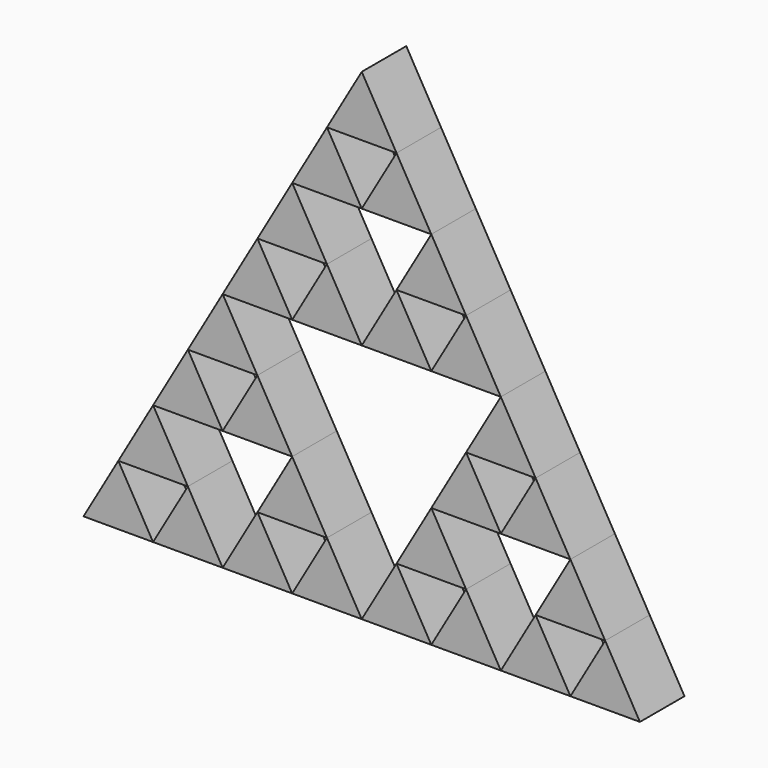
from build123d import *

# Parameters (mm, degrees)
F1_DEPTH = 25.4


with BuildPart() as f1:
    # F0 (on Front) → F1 (new body)
    with BuildSketch(Plane.XZ):
        Polygon((15.875, -27.496307), (0, 0), (-15.875, -27.496307), align=None)
        Polygon((0, -54.992613), (-15.875, -27.496307), (-31.75, -54.992613), align=None)
        Polygon((31.75, -54.992613), (15.875, -27.496307), (0, -54.992613), align=None)
        Polygon((-15.875, -82.48892), (-31.75, -54.992613), (-47.625, -82.48892), align=None)
        Polygon((-31.75, -109.985226), (-47.625, -82.48892), (-63.5, -109.985226), align=None)
        Polygon((0, -109.985226), (-15.875, -82.48892), (-31.75, -109.985226), align=None)
        Polygon((31.75, -109.985226), (15.875, -82.48892), (0, -109.985226), align=None)
        Polygon((47.625, -82.48892), (31.75, -54.992613), (15.875, -82.48892), align=None)
        Polygon((63.5, -109.985226), (47.625, -82.48892), (31.75, -109.985226), align=None)
        Polygon((79.375, -137.481533), (63.5, -109.985226), (47.625, -137.481533), align=None)
        Polygon((63.5, -164.977839), (47.625, -137.481533), (31.75, -164.977839), align=None)
        Polygon((95.25, -164.977839), (79.375, -137.481533), (63.5, -164.977839), align=None)
        Polygon((111.125, -192.474146), (95.25, -164.977839), (79.375, -192.474146), align=None)
        Polygon((95.25, -219.970453), (79.375, -192.474146), (63.5, -219.970453), align=None)
        Polygon((127, -219.970453), (111.125, -192.474146), (95.25, -219.970453), align=None)
        Polygon((47.625, -192.474146), (31.75, -164.977839), (15.875, -192.474146), align=None)
        Polygon((63.5, -219.970453), (47.625, -192.474146), (31.75, -219.970453), align=None)
        Polygon((31.75, -219.970453), (15.875, -192.474146), (0, -219.970453), align=None)
        Polygon((0, -219.970453), (-15.875, -192.474146), (-31.75, -219.970453), align=None)
        Polygon((-15.875, -192.474146), (-31.75, -164.977839), (-47.625, -192.474146), align=None)
        Polygon((-31.75, -219.970453), (-47.625, -192.474146), (-63.5, -219.970453), align=None)
        Polygon((-63.5, -219.970453), (-79.375, -192.474146), (-95.25, -219.970453), align=None)
        Polygon((-95.25, -219.970453), (-111.125, -192.474146), (-127, -219.970453), align=None)
        Polygon((-79.375, -192.474146), (-95.25, -164.977839), (-111.125, -192.474146), align=None)
        Polygon((-63.5, -164.977839), (-79.375, -137.481533), (-95.25, -164.977839), align=None)
        Polygon((-31.75, -164.977839), (-47.625, -137.481533), (-63.5, -164.977839), align=None)
        Polygon((-47.625, -137.481533), (-63.5, -109.985226), (-79.375, -137.481533), align=None)
    extrude(amount=F1_DEPTH)


solid = f1.part
